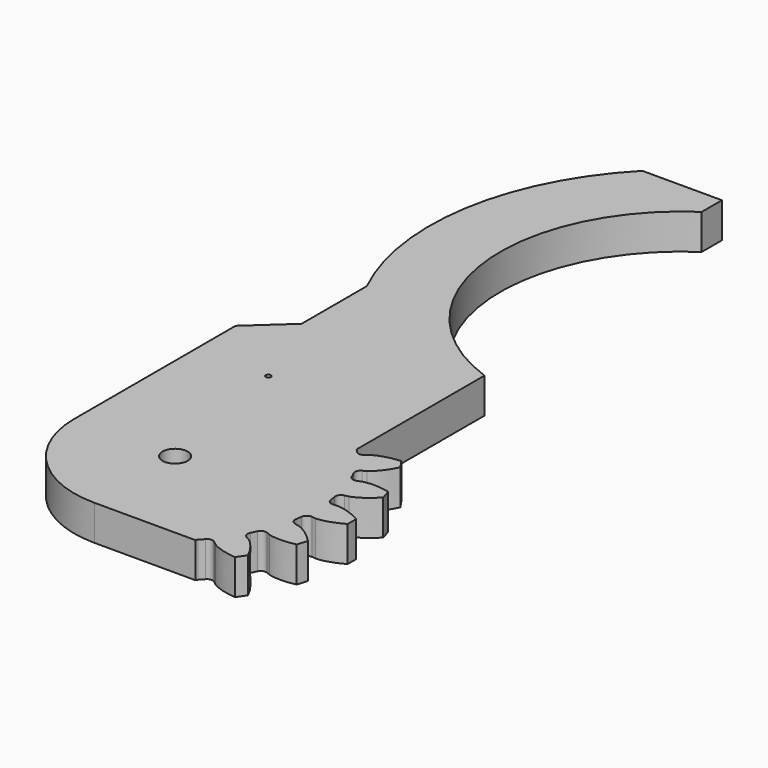
from build123d import *

# Parameters (mm, degrees)
CYLINDER002_R     = 0.5
CYLINDER002_DEPTH = 15
SKETCH002_W       = 3.675859
SKETCH002_H       = 9.820133
PAD002_DEPTH      = 10
CYLINDER001_R     = 2.5
CYLINDER001_DEPTH = 30
PAD_DEPTH         = 7
PAD001_DEPTH      = 7


with BuildPart() as fixation_servo:
    # Cylinder002 → Cylinder002 (new body)
    with BuildSketch(Plane(origin=(38, 30, 0), x_dir=(1, 0, 0), z_dir=(0, 0, 1))):
        Circle(CYLINDER002_R)
    extrude(amount=CYLINDER002_DEPTH)


with BuildPart() as part_mirroring001:
    # Part__Mirroring001: instance of fixation_servo
    add(fixation_servo.part.mirror(Plane(origin=(0, 0, 0), x_dir=(0, -1, 0), z_dir=(1, 0, 0))))


with BuildPart() as gearcutter_g:
    # Sketch002 → Pad002 (new body)
    with BuildSketch(Plane.XY):
        with BuildLine():
            Line((-20, 35), (-38.772621, 35))
            Line((-38.772621, 35), (-38.772621, -38.212818))
            Line((-38.772621, -38.212818), (39.418999, -38.212818))
            Line((20.044458, -20.01598), (39.418999, -38.212818))
            Line((0, -20), (20.044458, -20.01598))
            ThreePointArc((-20, 0), (-14.142136, -14.142136), (0, -20))
            Line((-20, 35), (-20, 0))
        make_face()
        with Locations((21.83793, 25.089934)):
            Rectangle(SKETCH002_W, SKETCH002_H)
    extrude(amount=PAD002_DEPTH)


with BuildPart() as hole:
    # Cylinder001 → Cylinder001 (new body)
    with BuildSketch(Plane.XY.offset(-10)):
        Circle(CYLINDER001_R)
    extrude(amount=CYLINDER001_DEPTH)


with BuildPart() as cut001:
    # InvoluteGear → Pad (new body)
    with BuildSketch(Plane.XY):
        with BuildLine():
            Line((29.216017, -2.627852), (30.02668, -2.698596))
            add(Edge.make_bspline(
                [(30.02668, -2.698596), (30.269336, -2.702327), (31.240634, -2.684194), (32.940327, -2.265756), (35.058609, -1.065575)],
                knots=[0, 0, 0, 0, 0, 1, 1, 1, 1, 1], degree=4))
            ThreePointArc((35.058609, -1.065575), (35.074799, 0), (35.058609, 1.065575))
            add(Edge.make_bspline(
                [(35.058609, 1.065575), (32.940327, 2.265756), (31.240634, 2.684194), (30.269336, 2.702327), (30.02668, 2.698596)],
                knots=[0, 0, 0, 0, 0, 1, 1, 1, 1, 1], degree=4))
            Line((30.02668, 2.698596), (29.216017, 2.627852))
            ThreePointArc((29.216017, 2.627852), (28.398075, 2.874673), (27.979368, 3.61941))
            ThreePointArc((27.979368, 3.61941), (27.89739, 4.204855), (27.803163, 4.788454))
            ThreePointArc((27.803163, 4.788454), (27.983753, 5.62352), (28.692604, 6.100468))
            Line((28.692604, 6.100468), (29.488104, 6.271815))
            add(Edge.make_bspline(
                [(29.488104, 6.271815), (29.72108, 6.339774), (30.64388, 6.643396), (32.144724, 7.544237), (33.815137, 9.315472)],
                knots=[0, 0, 0, 0, 0, 1, 1, 1, 1, 1], degree=4))
            ThreePointArc((33.815137, 9.315472), (33.516524, 10.338478), (33.18697, 11.351941))
            add(Edge.make_bspline(
                [(33.18697, 11.351941), (30.809038, 11.874427), (29.06152, 11.773281), (28.12803, 11.504313), (27.897254, 11.429224)],
                knots=[0, 0, 0, 0, 0, 1, 1, 1, 1, 1], degree=4))
            Line((27.897254, 11.429224), (27.143458, 11.122676))
            ThreePointArc((27.143458, 11.122676), (26.289104, 11.117439), (25.669483, 11.705673))
            ThreePointArc((25.669483, 11.705673), (25.418584, 12.240945), (25.156525, 12.770842))
            ThreePointArc((25.156525, 12.770842), (25.082952, 13.622039), (25.619728, 14.286735))
            Line((25.619728, 14.286735), (26.32938, 14.684947))
            add(Edge.make_bspline(
                [(26.32938, 14.684947), (26.531974, 14.818557), (27.324283, 15.380691), (28.492921, 16.683892), (29.567042, 18.868799)],
                knots=[0, 0, 0, 0, 0, 1, 1, 1, 1, 1], degree=4))
            ThreePointArc((29.567042, 18.868799), (28.980159, 19.758338), (28.366523, 20.629637))
            add(Edge.make_bspline(
                [(28.366523, 20.629637), (25.94023, 20.428003), (24.300163, 19.816261), (23.487425, 19.284092), (23.289034, 19.144315)],
                knots=[0, 0, 0, 0, 0, 1, 1, 1, 1, 1], degree=4))
            Line((23.289034, 19.144315), (22.659084, 18.629202))
            ThreePointArc((22.659084, 18.629202), (21.84423, 18.372372), (21.078752, 18.751836))
            ThreePointArc((21.078752, 18.751836), (20.681226, 19.189373), (20.274619, 19.618485))
            ThreePointArc((20.274619, 19.618485), (19.95342, 20.41018), (20.270426, 21.203563))
            Line((20.270426, 21.203563), (20.831176, 21.793257))
            add(Edge.make_bspline(
                [(20.831176, 21.793257), (20.985387, 21.980647), (21.576804, 22.751344), (22.309397, 24.341109), (22.691785, 26.745549)],
                knots=[0, 0, 0, 0, 0, 1, 1, 1, 1, 1], degree=4))
            ThreePointArc((22.691785, 26.745549), (21.868779, 27.422582), (21.025585, 28.074299))
            add(Edge.make_bspline(
                [(21.025585, 28.074299), (18.766519, 27.166461), (17.37963, 26.098479), (16.759858, 25.350393), (16.611482, 25.15835)],
                knots=[0, 0, 0, 0, 0, 1, 1, 1, 1, 1], degree=4))
            Line((16.611482, 25.15835), (16.161351, 24.480441))
            ThreePointArc((16.161351, 24.480441), (15.4584, 23.994839), (14.615082, 24.131816))
            ThreePointArc((14.615082, 24.131816), (14.10625, 24.432742), (13.591225, 24.72294))
            ThreePointArc((13.591225, 24.72294), (13.05094, 25.384787), (13.120008, 26.236361))
            Line((13.120008, 26.236361), (13.48203, 26.96514))
            add(Edge.make_bspline(
                [(13.48203, 26.96514), (13.574155, 27.18966), (13.912131, 28.10044), (14.143586, 29.835512), (13.800264, 32.245841)],
                knots=[0, 0, 0, 0, 0, 1, 1, 1, 1, 1], degree=4))
            ThreePointArc((13.800264, 32.245841), (12.814263, 32.65021), (11.816433, 33.024437))
            add(Edge.make_bspline(
                [(11.816433, 33.024437), (9.92532, 31.49106), (8.91484, 30.061732), (8.543105, 29.164202), (8.457926, 28.936956)],
                knots=[0, 0, 0, 0, 0, 1, 1, 1, 1, 1], degree=4))
            Line((8.457926, 28.936956), (8.227611, 28.156485))
            ThreePointArc((8.227611, 28.156485), (7.699024, 27.485259), (6.852797, 27.367578))
            ThreePointArc((6.852797, 27.367578), (6.277872, 27.505154), (5.70019, 27.630653))
            ThreePointArc((5.70019, 27.630653), (4.988826, 28.103844), (4.80382, 28.937943))
            Line((4.80382, 28.937943), (4.934946, 29.741053))
            add(Edge.make_bspline(
                [(4.934946, 29.741053), (4.956801, 29.982752), (5.011304, 30.952689), (4.721054, 32.678899), (3.682528, 34.880948)],
                knots=[0, 0, 0, 0, 0, 1, 1, 1, 1, 1], degree=4))
            ThreePointArc((3.682528, 34.880948), (2.621143, 34.976723), (1.557338, 35.040209))
            add(Edge.make_bspline(
                [(1.557338, 35.040209), (0.202213, 33.01754), (-0.342073, 31.353869), (-0.43274, 30.386642), (-0.447153, 30.144385)],
                knots=[0, 0, 0, 0, 0, 1, 1, 1, 1, 1], degree=4))
            Line((-0.447153, 30.144385), (-0.437188, 29.330703))
            ThreePointArc((-0.437188, 29.330703), (-0.744444, 28.533493), (-1.518389, 28.171611))
            ThreePointArc((-1.518389, 28.171611), (-2.108323, 28.133612), (-2.697331, 28.083261))
            ThreePointArc((-2.697331, 28.083261), (-3.516567, 28.325751), (-3.939209, 29.068262))
            Line((-3.939209, 29.068262), (-4.050629, 29.874342))
            add(Edge.make_bspline(
                [(-4.050629, 29.874342), (-4.100987, 30.111745), (-4.3348, 31.054656), (-5.120964, 32.618623), (-6.762416, 34.416729)],
                knots=[0, 0, 0, 0, 0, 1, 1, 1, 1, 1], degree=4))
            ThreePointArc((-6.762416, 34.416729), (-7.804877, 34.195401), (-8.840133, 33.942504))
            add(Edge.make_bspline(
                [(-8.840133, 33.942504), (-9.538861, 31.610267), (-9.56859, 29.860077), (-9.370135, 28.909097), (-9.312501, 28.673354)],
                knots=[0, 0, 0, 0, 0, 1, 1, 1, 1, 1], degree=4))
            Line((-9.312501, 28.673354), (-9.063142, 27.898758))
            ThreePointArc((-9.063142, 27.898758), (-9.121765, 27.046401), (-9.754659, 26.472472))
            ThreePointArc((-9.754659, 26.472472), (-10.307184, 26.262276), (-10.855183, 26.040548))
            ThreePointArc((-10.855183, 26.040548), (-11.709498, 26.030791), (-12.332222, 26.615739))
            Line((-12.332222, 26.615739), (-12.676288, 27.353165))
            add(Edge.make_bspline(
                [(-12.676288, 27.353165), (-12.794385, 27.565178), (-13.295737, 28.39728), (-14.507962, 29.660038), (-16.60649, 30.894434)],
                knots=[0, 0, 0, 0, 0, 1, 1, 1, 1, 1], degree=4))
            ThreePointArc((-16.60649, 30.894434), (-17.537399, 30.375667), (-18.452119, 29.828859))
            add(Edge.make_bspline(
                [(-18.452119, 29.828859), (-18.432366, 27.394282), (-17.944897, 25.713086), (-17.474952, 24.862851), (-17.350392, 24.65457)],
                knots=[0, 0, 0, 0, 0, 1, 1, 1, 1, 1], degree=4))
            Line((-17.350392, 24.65457), (-16.883795, 23.987887))
            ThreePointArc((-16.883795, 23.987887), (-16.688578, 23.156118), (-17.124185, 22.421138))
            ThreePointArc((-17.124185, 22.421138), (-17.590206, 22.057421), (-18.048504, 21.684019))
            ThreePointArc((-18.048504, 21.684019), (-18.861988, 21.422881), (-19.629463, 21.79829))
            Line((-19.629463, 21.79829), (-20.175603, 22.401539))
            add(Edge.make_bspline(
                [(-20.175603, 22.401539), (-20.350945, 22.569323), (-21.07529, 23.216681), (-22.605863, 24.066029), (-24.975004, 24.627032)],
                knots=[0, 0, 0, 0, 0, 1, 1, 1, 1, 1], degree=4))
            ThreePointArc((-24.975004, 24.627032), (-25.711647, 23.856922), (-26.424554, 23.064789))
            add(Edge.make_bspline(
                [(-26.424554, 23.064789), (-25.688074, 20.744196), (-24.726721, 19.281374), (-24.027043, 18.607432), (-23.846625, 18.445118)],
                knots=[0, 0, 0, 0, 0, 1, 1, 1, 1, 1], degree=4))
            Line((-23.846625, 18.445118), (-23.204249, 17.945586))
            ThreePointArc((-23.204249, 17.945586), (-22.772537, 17.208312), (-22.972152, 16.377588))
            ThreePointArc((-22.972152, 16.377588), (-23.310261, 15.892667), (-23.638136, 15.400768))
            ThreePointArc((-23.638136, 15.400768), (-24.338508, 14.911454), (-25.182539, 15.043968))
            Line((-25.182539, 15.043968), (-25.882227, 15.459439))
            add(Edge.make_bspline(
                [(-25.882227, 15.459439), (-26.099234, 15.568085), (-26.982211, 15.973178), (-28.695135, 16.333648), (-31.12438, 16.17141)],
                knots=[0, 0, 0, 0, 0, 1, 1, 1, 1, 1], degree=4))
            ThreePointArc((-31.12438, 16.17141), (-31.601302, 15.218385), (-32.049051, 14.251311))
            add(Edge.make_bspline(
                [(-32.049051, 14.251311), (-30.661284, 12.250897), (-29.311467, 11.136428), (-28.444225, 10.698661), (-28.22398, 10.596737)],
                knots=[0, 0, 0, 0, 0, 1, 1, 1, 1, 1], degree=4))
            Line((-28.22398, 10.596737), (-27.462904, 10.308742))
            ThreePointArc((-27.462904, 10.308742), (-26.833056, 9.731472), (-26.778943, 8.878817))
            ThreePointArc((-26.778943, 8.878817), (-26.959098, 8.31578), (-27.127416, 7.749093))
            ThreePointArc((-27.127416, 7.749093), (-27.652445, 7.075079), (-28.498037, 6.952923))
            Line((-28.498037, 6.952923), (-29.289102, 7.143699))
            add(Edge.make_bspline(
                [(-29.289102, 7.143699), (-29.528492, 7.183554), (-30.491644, 7.310388), (-32.234718, 7.14995), (-34.508218, 6.278888)],
                knots=[0, 0, 0, 0, 0, 1, 1, 1, 1, 1], degree=4))
            ThreePointArc((-34.508218, 6.278888), (-34.683042, 5.227628), (-34.825849, 4.171541))
            add(Edge.make_bspline(
                [(-34.825849, 4.171541), (-32.910105, 2.669052), (-31.29176, 2.001961), (-30.334014, 1.839267), (-30.093511, 1.80679)],
                knots=[0, 0, 0, 0, 0, 1, 1, 1, 1, 1], degree=4))
            Line((-30.093511, 1.80679), (-29.281359, 1.75592))
            ThreePointArc((-29.281359, 1.75592), (-28.50934, 1.389948), (-28.206307, 0.591124))
            ThreePointArc((-28.206307, 0.591124), (-28.2125, 0), (-28.206307, -0.591124))
            ThreePointArc((-28.206307, -0.591124), (-28.50934, -1.389948), (-29.281359, -1.75592))
            Line((-29.281359, -1.75592), (-30.093511, -1.80679))
            add(Edge.make_bspline(
                [(-30.093511, -1.80679), (-30.334014, -1.839267), (-31.29176, -2.001961), (-32.910105, -2.669052), (-34.825849, -4.171541)],
                knots=[0, 0, 0, 0, 0, 1, 1, 1, 1, 1], degree=4))
            ThreePointArc((-34.825849, -4.171541), (-34.683042, -5.227628), (-34.508218, -6.278888))
            add(Edge.make_bspline(
                [(-34.508218, -6.278888), (-32.234718, -7.14995), (-30.491644, -7.310388), (-29.528492, -7.183554), (-29.289102, -7.143699)],
                knots=[0, 0, 0, 0, 0, 1, 1, 1, 1, 1], degree=4))
            Line((-29.289102, -7.143699), (-28.498037, -6.952923))
            ThreePointArc((-28.498037, -6.952923), (-27.652445, -7.075079), (-27.127416, -7.749093))
            ThreePointArc((-27.127416, -7.749093), (-26.959098, -8.31578), (-26.778943, -8.878817))
            ThreePointArc((-26.778943, -8.878817), (-26.833056, -9.731472), (-27.462904, -10.308742))
            Line((-27.462904, -10.308742), (-28.22398, -10.596737))
            add(Edge.make_bspline(
                [(-28.22398, -10.596737), (-28.444225, -10.698661), (-29.311467, -11.136428), (-30.661284, -12.250897), (-32.049051, -14.251311)],
                knots=[0, 0, 0, 0, 0, 1, 1, 1, 1, 1], degree=4))
            ThreePointArc((-32.049051, -14.251311), (-31.601302, -15.218385), (-31.12438, -16.17141))
            add(Edge.make_bspline(
                [(-31.12438, -16.17141), (-28.695135, -16.333648), (-26.982211, -15.973178), (-26.099234, -15.568085), (-25.882227, -15.459439)],
                knots=[0, 0, 0, 0, 0, 1, 1, 1, 1, 1], degree=4))
            Line((-25.882227, -15.459439), (-25.182539, -15.043968))
            ThreePointArc((-25.182539, -15.043968), (-24.338508, -14.911454), (-23.638136, -15.400768))
            ThreePointArc((-23.638136, -15.400768), (-23.310261, -15.892667), (-22.972152, -16.377588))
            ThreePointArc((-22.972152, -16.377588), (-22.772537, -17.208312), (-23.204249, -17.945586))
            Line((-23.204249, -17.945586), (-23.846625, -18.445118))
            add(Edge.make_bspline(
                [(-23.846625, -18.445118), (-24.027043, -18.607432), (-24.726721, -19.281374), (-25.688074, -20.744196), (-26.424554, -23.064789)],
                knots=[0, 0, 0, 0, 0, 1, 1, 1, 1, 1], degree=4))
            ThreePointArc((-26.424554, -23.064789), (-25.711647, -23.856922), (-24.975004, -24.627032))
            add(Edge.make_bspline(
                [(-24.975004, -24.627032), (-22.605863, -24.066029), (-21.07529, -23.216681), (-20.350945, -22.569323), (-20.175603, -22.401539)],
                knots=[0, 0, 0, 0, 0, 1, 1, 1, 1, 1], degree=4))
            Line((-20.175603, -22.401539), (-19.629463, -21.79829))
            ThreePointArc((-19.629463, -21.79829), (-18.861988, -21.422881), (-18.048504, -21.684019))
            ThreePointArc((-18.048504, -21.684019), (-17.590206, -22.057421), (-17.124185, -22.421138))
            ThreePointArc((-17.124185, -22.421138), (-16.688578, -23.156118), (-16.883795, -23.987887))
            Line((-16.883795, -23.987887), (-17.350392, -24.65457))
            add(Edge.make_bspline(
                [(-17.350392, -24.65457), (-17.474952, -24.862851), (-17.944897, -25.713086), (-18.432366, -27.394282), (-18.452119, -29.828859)],
                knots=[0, 0, 0, 0, 0, 1, 1, 1, 1, 1], degree=4))
            ThreePointArc((-18.452119, -29.828859), (-17.537399, -30.375667), (-16.60649, -30.894434))
            add(Edge.make_bspline(
                [(-16.60649, -30.894434), (-14.507962, -29.660038), (-13.295737, -28.39728), (-12.794385, -27.565178), (-12.676288, -27.353165)],
                knots=[0, 0, 0, 0, 0, 1, 1, 1, 1, 1], degree=4))
            Line((-12.676288, -27.353165), (-12.332222, -26.615739))
            ThreePointArc((-12.332222, -26.615739), (-11.709498, -26.030791), (-10.855183, -26.040548))
            ThreePointArc((-10.855183, -26.040548), (-10.307184, -26.262276), (-9.754659, -26.472472))
            ThreePointArc((-9.754659, -26.472472), (-9.121765, -27.046401), (-9.063142, -27.898758))
            Line((-9.063142, -27.898758), (-9.312501, -28.673354))
            add(Edge.make_bspline(
                [(-9.312501, -28.673354), (-9.370135, -28.909097), (-9.56859, -29.860077), (-9.538861, -31.610267), (-8.840133, -33.942504)],
                knots=[0, 0, 0, 0, 0, 1, 1, 1, 1, 1], degree=4))
            ThreePointArc((-8.840133, -33.942504), (-7.804877, -34.195401), (-6.762416, -34.416729))
            add(Edge.make_bspline(
                [(-6.762416, -34.416729), (-5.120964, -32.618623), (-4.3348, -31.054656), (-4.100987, -30.111745), (-4.050629, -29.874342)],
                knots=[0, 0, 0, 0, 0, 1, 1, 1, 1, 1], degree=4))
            Line((-4.050629, -29.874342), (-3.939209, -29.068262))
            ThreePointArc((-3.939209, -29.068262), (-3.516567, -28.325751), (-2.697331, -28.083261))
            ThreePointArc((-2.697331, -28.083261), (-2.108323, -28.133612), (-1.518389, -28.171611))
            ThreePointArc((-1.518389, -28.171611), (-0.744444, -28.533493), (-0.437188, -29.330703))
            Line((-0.437188, -29.330703), (-0.447153, -30.144385))
            add(Edge.make_bspline(
                [(-0.447153, -30.144385), (-0.43274, -30.386642), (-0.342073, -31.353869), (0.202213, -33.01754), (1.557338, -35.040209)],
                knots=[0, 0, 0, 0, 0, 1, 1, 1, 1, 1], degree=4))
            ThreePointArc((1.557338, -35.040209), (2.621143, -34.976723), (3.682528, -34.880948))
            add(Edge.make_bspline(
                [(3.682528, -34.880948), (4.721054, -32.678899), (5.011304, -30.952689), (4.956801, -29.982752), (4.934946, -29.741053)],
                knots=[0, 0, 0, 0, 0, 1, 1, 1, 1, 1], degree=4))
            Line((4.934946, -29.741053), (4.80382, -28.937943))
            ThreePointArc((4.80382, -28.937943), (4.988826, -28.103844), (5.70019, -27.630653))
            ThreePointArc((5.70019, -27.630653), (6.277872, -27.505154), (6.852797, -27.367578))
            ThreePointArc((6.852797, -27.367578), (7.699024, -27.485259), (8.227611, -28.156485))
            Line((8.227611, -28.156485), (8.457926, -28.936956))
            add(Edge.make_bspline(
                [(8.457926, -28.936956), (8.543105, -29.164202), (8.91484, -30.061732), (9.92532, -31.49106), (11.816433, -33.024437)],
                knots=[0, 0, 0, 0, 0, 1, 1, 1, 1, 1], degree=4))
            ThreePointArc((11.816433, -33.024437), (12.814263, -32.65021), (13.800264, -32.245841))
            add(Edge.make_bspline(
                [(13.800264, -32.245841), (14.143586, -29.835512), (13.912131, -28.10044), (13.574155, -27.18966), (13.48203, -26.96514)],
                knots=[0, 0, 0, 0, 0, 1, 1, 1, 1, 1], degree=4))
            Line((13.48203, -26.96514), (13.120008, -26.236361))
            ThreePointArc((13.120008, -26.236361), (13.05094, -25.384787), (13.591225, -24.72294))
            ThreePointArc((13.591225, -24.72294), (14.10625, -24.432742), (14.615082, -24.131816))
            ThreePointArc((14.615082, -24.131816), (15.4584, -23.994839), (16.161351, -24.480441))
            Line((16.161351, -24.480441), (16.611482, -25.15835))
            add(Edge.make_bspline(
                [(16.611482, -25.15835), (16.759858, -25.350393), (17.37963, -26.098479), (18.766519, -27.166461), (21.025585, -28.074299)],
                knots=[0, 0, 0, 0, 0, 1, 1, 1, 1, 1], degree=4))
            ThreePointArc((21.025585, -28.074299), (21.868779, -27.422582), (22.691785, -26.745549))
            add(Edge.make_bspline(
                [(22.691785, -26.745549), (22.309397, -24.341109), (21.576804, -22.751344), (20.985387, -21.980647), (20.831176, -21.793257)],
                knots=[0, 0, 0, 0, 0, 1, 1, 1, 1, 1], degree=4))
            Line((20.831176, -21.793257), (20.270426, -21.203563))
            ThreePointArc((20.270426, -21.203563), (19.95342, -20.41018), (20.274619, -19.618485))
            ThreePointArc((20.274619, -19.618485), (20.681226, -19.189373), (21.078752, -18.751836))
            ThreePointArc((21.078752, -18.751836), (21.84423, -18.372372), (22.659084, -18.629202))
            Line((22.659084, -18.629202), (23.289034, -19.144315))
            add(Edge.make_bspline(
                [(23.289034, -19.144315), (23.487425, -19.284092), (24.300163, -19.816261), (25.94023, -20.428003), (28.366523, -20.629637)],
                knots=[0, 0, 0, 0, 0, 1, 1, 1, 1, 1], degree=4))
            ThreePointArc((28.366523, -20.629637), (28.980159, -19.758338), (29.567042, -18.868799))
            add(Edge.make_bspline(
                [(29.567042, -18.868799), (28.492921, -16.683892), (27.324283, -15.380691), (26.531974, -14.818557), (26.32938, -14.684947)],
                knots=[0, 0, 0, 0, 0, 1, 1, 1, 1, 1], degree=4))
            Line((26.32938, -14.684947), (25.619728, -14.286735))
            ThreePointArc((25.619728, -14.286735), (25.082952, -13.622039), (25.156525, -12.770842))
            ThreePointArc((25.156525, -12.770842), (25.418584, -12.240945), (25.669483, -11.705673))
            ThreePointArc((25.669483, -11.705673), (26.289104, -11.117439), (27.143458, -11.122676))
            Line((27.143458, -11.122676), (27.897254, -11.429224))
            add(Edge.make_bspline(
                [(27.897254, -11.429224), (28.12803, -11.504313), (29.06152, -11.773281), (30.809038, -11.874427), (33.18697, -11.351941)],
                knots=[0, 0, 0, 0, 0, 1, 1, 1, 1, 1], degree=4))
            ThreePointArc((33.18697, -11.351941), (33.516524, -10.338478), (33.815137, -9.315472))
            add(Edge.make_bspline(
                [(33.815137, -9.315472), (32.144724, -7.544237), (30.64388, -6.643396), (29.72108, -6.339774), (29.488104, -6.271815)],
                knots=[0, 0, 0, 0, 0, 1, 1, 1, 1, 1], degree=4))
            Line((29.488104, -6.271815), (28.692604, -6.100468))
            ThreePointArc((28.692604, -6.100468), (27.983753, -5.62352), (27.803163, -4.788454))
            ThreePointArc((27.803163, -4.788454), (27.89739, -4.204855), (27.979368, -3.61941))
            ThreePointArc((27.979368, -3.61941), (28.398075, -2.874673), (29.216017, -2.627852))
        make_face()
    extrude(amount=PAD_DEPTH)

    # Cut: cut hole
    add(hole.part, mode=Mode.SUBTRACT)

    # Cut001: cut gearcutter_g
    add(gearcutter_g.part, mode=Mode.SUBTRACT)


with BuildPart() as obj1:
    # Sketch001 → Pad001 (new body)
    with BuildSketch(Plane.XY):
        with BuildLine():
            Line((20.522763, 10), (-20, 10))
            Line((-20, 10), (-20, 40))
            Line((-20, 40), (-12.44178, 46.907085))
            Line((-12.44178, 63.085703), (-12.44178, 46.907085))
            ThreePointArc((-3.272439, 119.933259), (-16.862004, 92.961944), (-12.44178, 63.085703))
            Line((12.5, 119.933259), (-3.272439, 119.933259))
            Line((12.5, 119.933259), (12.5, 114.933259))
            ThreePointArc((12.5, 114.933259), (-3.21942, 80.514127), (20.522763, 51.050835))
            Line((20.522763, 51.050835), (20.522763, 10))
        make_face()
    extrude(amount=PAD001_DEPTH)

    # Fusion: union Cut001
    add(cut001.part)


with BuildPart() as obj1_1:
    # Clone012 placement: moved
    add(obj1.part.moved(Location((-32.5, 0, 0))))

    # Cut005: cut Part__Mirroring001
    add(part_mirroring001.part, mode=Mode.SUBTRACT)


solid = obj1_1.part
